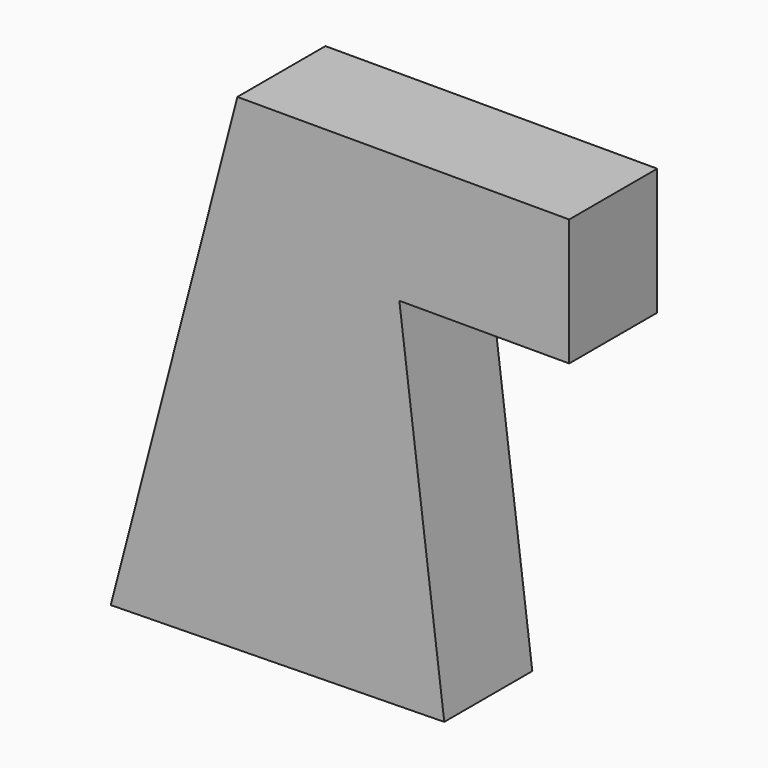
from build123d import *

# Parameters (mm, degrees)
F1_DEPTH = 15.494


with BuildPart() as f1:
    # F0 (on Front) → F1 (new body)
    with BuildSketch(Plane.XZ):
        Polygon((-34.167524, 30.66401), (-51.991723, -38.114682), (-5.041494, -37.326522), (-11.365365, 12.815122), (-13.61647, 30.66401), align=None)
        Polygon((12.548127, 30.66401), (-13.61647, 30.66401), (-11.365365, 12.815122), (12.548127, 12.815122), align=None)
    extrude(amount=-F1_DEPTH)


solid = f1.part
